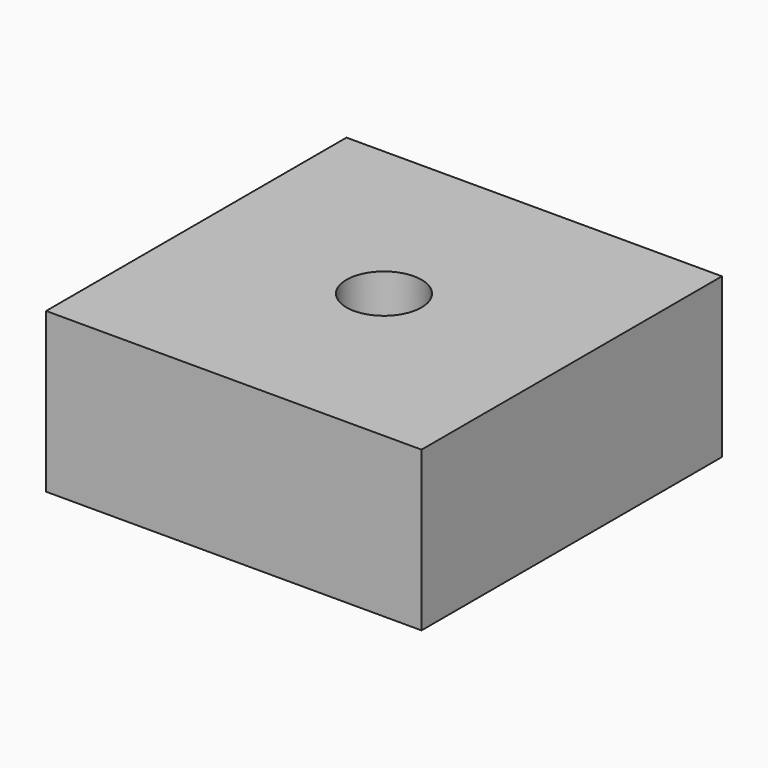
from build123d import *

# Parameters (mm, degrees)
F0_R     = 12.7
F1_DEPTH = 152.4
F2_W     = 127
F2_H     = 127
F3_DEPTH = 53.830817


with BuildPart() as f1:
    # F0 (on Top) → F1 (new body)
    with BuildSketch(Plane.XY):
        Circle(F0_R)
    extrude(amount=F1_DEPTH)


with BuildPart() as f3:
    # F2 (on Top) → F3 (new body)
    with BuildSketch(Plane.XY):
        Rectangle(F2_W, F2_H)
    extrude(amount=F3_DEPTH)

    # F4: cut F1
    add(f1.part, mode=Mode.SUBTRACT)


solid = f3.part
